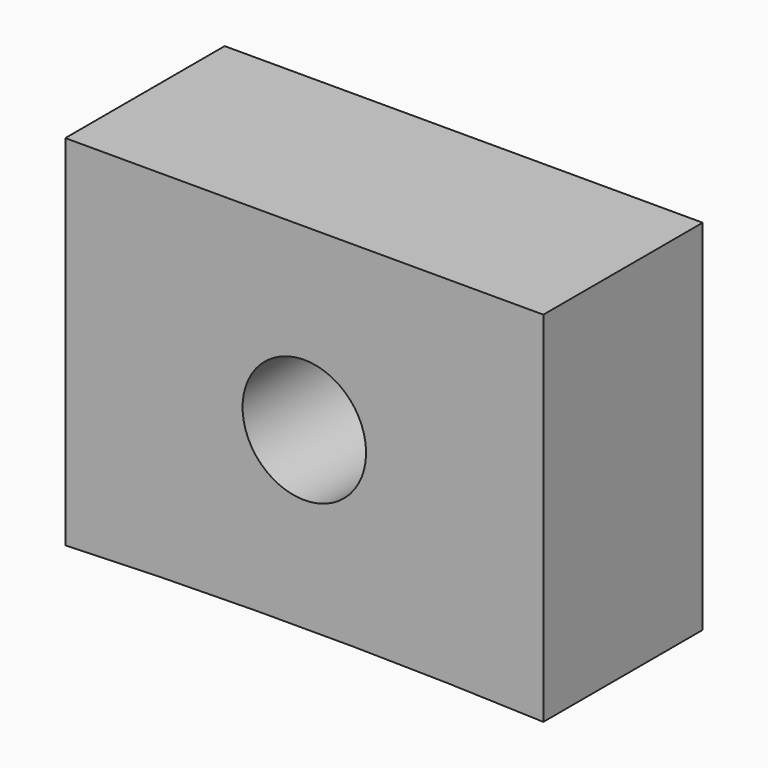
from build123d import *

# Parameters (mm, degrees)
F0_R     = 15.5
F1_DEPTH = 50


with BuildPart() as f1:
    # F0 (on Front) → F1 (new body)
    with BuildSketch(Plane.XZ):
        with BuildLine():
            Line((60, 45), (-60, 45))
            Line((-60, 45), (-60, -45))
            ThreePointArc((-60, -45), (0, -43.829965), (60, -45))
            Line((60, -45), (60, 45))
        make_face()
        Circle(F0_R, mode=Mode.SUBTRACT)
    extrude(amount=F1_DEPTH)


solid = f1.part
